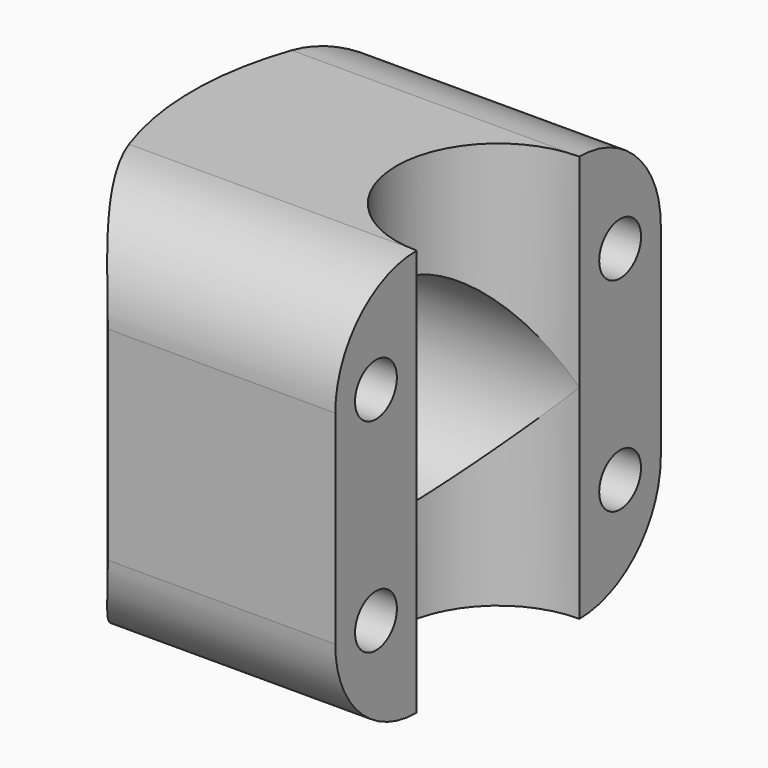
from build123d import *

# Parameters (mm, degrees)
F1_DEPTH = 25.4
F3_D     = 6.5278
F7_DEPTH = 12.7
F8_R     = 12.7
F9_D     = 25.4


with BuildPart() as f1:
    # F0 (on Top) → F1 (new body, symmetric)
    with BuildSketch(Plane.XY):
        with BuildLine():
            Line((0, 50.8), (-28.3980633142, 50.8))
            ThreePointArc((-28.3980633142, 50.8), (-38.1, 25.4), (-28.3980633142, 0))
            Line((-28.3980633142, 0), (0, 0))
            Line((0, 0), (0, 12.7))
            ThreePointArc((0, 12.7), (-12.7, 25.4), (0, 38.1))
            Line((0, 38.1), (0, 50.8))
        make_face()
    extrude(amount=F1_DEPTH, both=True)

    # F3 (through all)
    with Locations(Plane.YZ):
        with Locations((6.35, 12.7), (44.45, 12.7), (44.45, -12.7), (6.35, -12.7)):
            Hole(F3_D / 2)

    # F6 (on plane+point) → F7 (cut)
    with BuildSketch(Plane.YZ.offset(-38.1)):
        Polygon((0.850738686, 15.875), (0.850738686, 9.525), (6.35, 6.35), (11.849261314, 9.525), (11.849261314, 15.875), (6.35, 19.05), align=None)
        Polygon((38.950738686, 15.875), (38.950738686, 9.525), (44.45, 6.35), (49.949261314, 9.525), (49.949261314, 15.875), (44.45, 19.05), align=None)
        Polygon((44.45, -6.35), (38.950738686, -9.525), (38.950738686, -15.875), (44.45, -19.05), (49.949261314, -15.875), (49.949261314, -9.525), align=None)
        Polygon((6.35, -6.35), (0.850738686, -9.525), (0.850738686, -15.875), (6.35, -19.05), (11.849261314, -15.875), (11.849261314, -9.525), align=None)
    extrude(amount=F7_DEPTH, mode=Mode.SUBTRACT)

    # F8
    f8_edges = [f1.edges().sort_by_distance(p)[0] for p in [
        (-14.199032, 0, 25.4),
        (-14.199032, 50.8, 25.4),
        (-14.199032, 0, -25.4),
        (-14.199032, 50.8, -25.4),
    ]]
    fillet(f8_edges, radius=F8_R)

    # F9 (through all)
    with Locations(Plane.YZ):
        with Locations((25.4, 0)):
            Hole(F9_D / 2)


solid = f1.part
